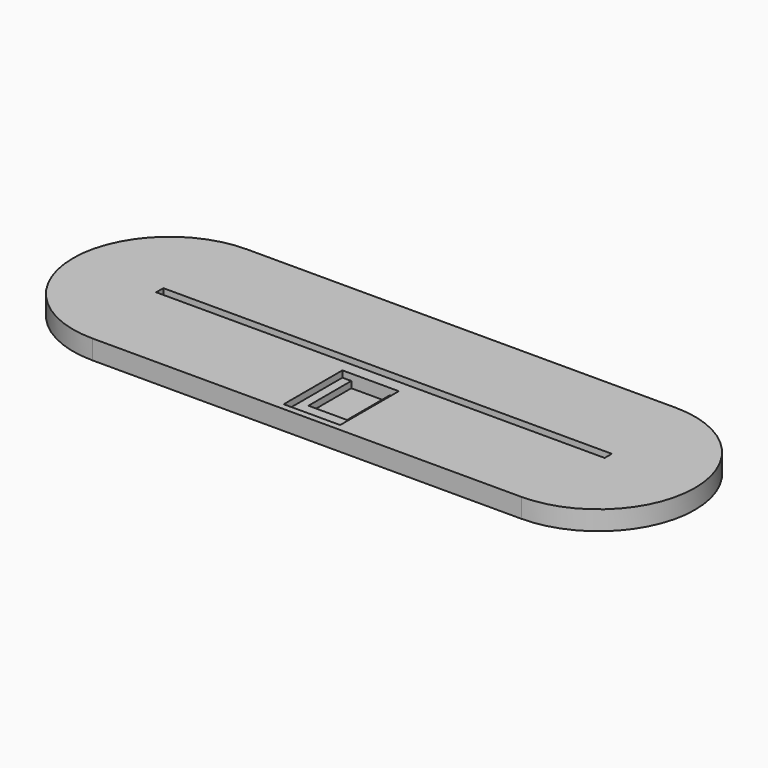
from build123d import *

# Parameters (mm, degrees)
PAD_DEPTH       = 3
PAD001_DEPTH    = 3
SKETCH002_W     = 209.08447
SKETCH002_H     = 4.18
PAD002_DEPTH    = 3
SKETCH003_W     = 26.3
SKETCH003_H     = 34.2
POCKET_DEPTH    = 3
SKETCH004_W     = 18
SKETCH004_H     = 25
POCKET001_DEPTH = 3


with BuildPart() as part:
    # Sketch → Pad (new body)
    with BuildSketch(Plane.XY):
        with BuildLine():
            ThreePointArc((-100, 45), (-145, 0), (-100, -45))
            Line((-100, -45), (100, -45))
            ThreePointArc((100, -45), (145, 0), (100, 45))
            Line((-100, 45), (100, 45))
        make_face()
    extrude(amount=PAD_DEPTH)

    # Sketch001 (on Face6 of Pad) → Pad001 (join)
    with BuildSketch(Plane.XY.offset(3)):
        with BuildLine():
            ThreePointArc((-100, 45), (-145, 0), (-100, -45))
            Line((-100, -45), (100, -45))
            ThreePointArc((100, -45), (145, 0), (100, 45))
            Line((-100, 45), (100, 45))
        make_face()
        with BuildLine():
            ThreePointArc((-100, 5), (-105, 0), (-100, -5))
            Line((-100, -5), (100, -5))
            ThreePointArc((100, -5), (105, 0), (100, 5))
            Line((-100, 5), (100, 5))
        make_face(mode=Mode.SUBTRACT)
    extrude(amount=PAD001_DEPTH)

    # Sketch002 (on Face9 of Pad001) → Pad002 (join)
    with BuildSketch(Plane.XY.offset(6)):
        with BuildLine():
            ThreePointArc((-100, 45), (-145, 0), (-100, -45))
            Line((-100, -45), (100, -45))
            ThreePointArc((100, -45), (145, 0), (100, 45))
            Line((-100, 45), (100, 45))
        make_face()
        Rectangle(SKETCH002_W, SKETCH002_H, mode=Mode.SUBTRACT)
    extrude(amount=PAD002_DEPTH)

    # Sketch003 (on Face13 of Pad002) → Pocket (cut)
    with BuildSketch(Plane.XY.offset(9)):
        with Locations((0, -24.9)):
            Rectangle(SKETCH003_W, SKETCH003_H)
    extrude(amount=-POCKET_DEPTH, mode=Mode.SUBTRACT)

    # Sketch004 (on Face27 of Pocket) → Pocket001 (cut)
    with BuildSketch(Plane.XY.offset(6)):
        with Locations((0, -20.3)):
            Rectangle(SKETCH004_W, SKETCH004_H)
    extrude(amount=-POCKET001_DEPTH, mode=Mode.SUBTRACT)


solid = part.part
